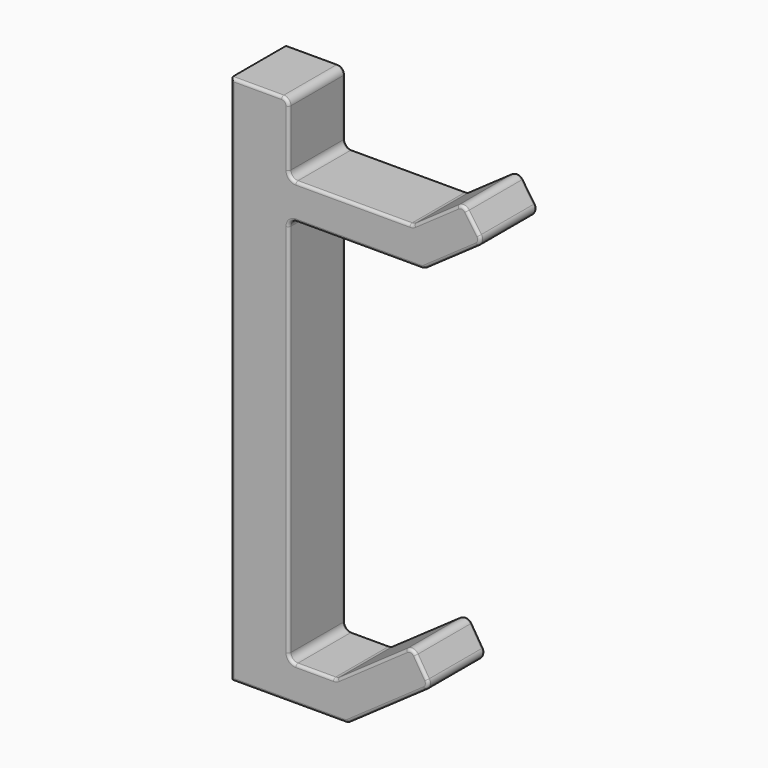
from build123d import *

# Parameters (mm, degrees)
F1_DEPTH = 12.7
F2_R     = 0.508


with BuildPart() as f1:
    # F0 (on Front) → F1 (new body)
    with BuildSketch(Plane.XZ):
        with BuildLine():
            Line((-24.592176, 50.020517), (-33.691168, 50.020517))
            Line((-33.691168, 50.020517), (-33.691168, -38.879483))
            Line((-33.691168, -38.879483), (-33.691168, -45.229483))
            Line((-33.691168, -45.229483), (-23.321956, -45.229483))
            Line((-23.321956, -45.229483), (-13.285488, -45.229483))
            ThreePointArc((-13.285488, -45.229483), (-12.903592, -45.170703), (-12.557046, -44.999806))
            Line((-12.557046, -44.999806), (1.165009, -35.391519))
            ThreePointArc((1.165009, -35.391519), (1.680854, -34.605461), (1.514742, -33.680048))
            Line((1.514742, -33.680048), (-0.50165, -30.440789))
            ThreePointArc((-0.50165, -30.440789), (-1.325559, -29.867651), (-2.308267, -30.071614))
            Line((-2.308267, -30.071614), (-14.559193, -38.649806))
            ThreePointArc((-14.559193, -38.649806), (-14.905739, -38.820703), (-15.287635, -38.879483))
            Line((-15.287635, -38.879483), (-22.052176, -38.879483))
            ThreePointArc((-22.052176, -38.879483), (-22.950201, -38.507508), (-23.322176, -37.609483))
            Line((-23.322176, -37.609483), (-23.322176, 29.712342))
            ThreePointArc((-23.322176, 29.712342), (-22.950201, 30.610368), (-22.052176, 30.982342))
            Line((-22.052176, 30.982342), (0.436567, 30.982342))
            ThreePointArc((0.436567, 30.982342), (0.818464, 31.041122), (1.165009, 31.212019))
            Line((1.165009, 31.212019), (10.530465, 37.769782))
            ThreePointArc((10.530465, 37.769782), (11.052137, 38.586245), (10.846207, 39.533001))
            Line((10.846207, 39.533001), (8.677486, 42.665598))
            ThreePointArc((8.677486, 42.665598), (7.857162, 43.192816), (6.90486, 42.983024))
            Line((6.90486, 42.983024), (-0.837138, 37.562019))
            ThreePointArc((-0.837138, 37.562019), (-1.183684, 37.391122), (-1.56558, 37.332342))
            Line((-1.56558, 37.332342), (-22.052176, 37.332342))
            ThreePointArc((-22.052176, 37.332342), (-22.950201, 37.704317), (-23.322176, 38.602342))
            Line((-23.322176, 38.602342), (-23.322176, 48.750517))
            ThreePointArc((-23.322176, 48.750517), (-23.69415, 49.648543), (-24.592176, 50.020517))
        make_face()
        with BuildLine():
            Line((-24.592176, 50.020517), (-33.691168, 50.020517))
            Line((-33.691168, 50.020517), (-33.691168, -38.879483))
            Line((-33.691168, -38.879483), (-33.691168, -45.229483))
            Line((-33.691168, -45.229483), (-23.321956, -45.229483))
            Line((-23.321956, -45.229483), (-13.285488, -45.229483))
            ThreePointArc((-13.285488, -45.229483), (-12.903592, -45.170703), (-12.557046, -44.999806))
            Line((-12.557046, -44.999806), (1.165009, -35.391519))
            ThreePointArc((1.165009, -35.391519), (1.680854, -34.605461), (1.514742, -33.680048))
            Line((1.514742, -33.680048), (-0.50165, -30.440789))
            ThreePointArc((-0.50165, -30.440789), (-1.325559, -29.867651), (-2.308267, -30.071614))
            Line((-2.308267, -30.071614), (-14.559193, -38.649806))
            ThreePointArc((-14.559193, -38.649806), (-14.905739, -38.820703), (-15.287635, -38.879483))
            Line((-15.287635, -38.879483), (-22.052176, -38.879483))
            ThreePointArc((-22.052176, -38.879483), (-22.950201, -38.507508), (-23.322176, -37.609483))
            Line((-23.322176, -37.609483), (-23.322176, 29.712342))
            ThreePointArc((-23.322176, 29.712342), (-22.950201, 30.610368), (-22.052176, 30.982342))
            Line((-22.052176, 30.982342), (0.436567, 30.982342))
            ThreePointArc((0.436567, 30.982342), (0.818464, 31.041122), (1.165009, 31.212019))
            Line((1.165009, 31.212019), (10.530465, 37.769782))
            ThreePointArc((10.530465, 37.769782), (11.052137, 38.586245), (10.846207, 39.533001))
            Line((10.846207, 39.533001), (8.677486, 42.665598))
            ThreePointArc((8.677486, 42.665598), (7.857162, 43.192816), (6.90486, 42.983024))
            Line((6.90486, 42.983024), (-0.837138, 37.562019))
            ThreePointArc((-0.837138, 37.562019), (-1.183684, 37.391122), (-1.56558, 37.332342))
            Line((-1.56558, 37.332342), (-22.052176, 37.332342))
            ThreePointArc((-22.052176, 37.332342), (-22.950201, 37.704317), (-23.322176, 38.602342))
            Line((-23.322176, 38.602342), (-23.322176, 48.750517))
            ThreePointArc((-23.322176, 48.750517), (-23.69415, 49.648543), (-24.592176, 50.020517))
        make_face()
    extrude(amount=F1_DEPTH)

    # F2
    f2_edges = [f1.edges().sort_by_distance(p)[0] for p in [
        (-1.183684, -12.7, 37.391122),
        (-11.808878, -12.7, 37.332342),
        (-22.950201, -12.7, 37.704317),
        (-23.322176, -12.7, 43.67643),
        (-23.69415, -12.7, 49.648543),
        (-29.141672, -12.7, 50.020517),
        (-33.691168, -12.7, 2.395517),
        (-23.488328, -12.7, -45.229483),
        (-12.903592, -12.7, -45.170703),
        (-5.696018, -12.7, -40.195662),
        (1.680854, -12.7, -34.605461),
        (0.506546, -12.7, -32.060419),
        (-1.325559, -12.7, -29.867651),
        (-8.43373, -12.7, -34.36071),
        (-14.905739, -12.7, -38.820703),
        (-18.669906, -12.7, -38.879483),
        (-22.950201, -12.7, -38.507508),
        (-23.322176, -12.7, -3.94857),
        (-22.950201, -12.7, 30.610368),
        (-10.807804, -12.7, 30.982342),
        (0.818464, -12.7, 31.041122),
        (5.847737, -12.7, 34.4909),
        (11.052137, -12.7, 38.586245),
        (9.761846, -12.7, 41.0993),
        (7.857162, -12.7, 43.192816),
        (3.033861, -12.7, 40.272522),
        (-1.183684, 0, 37.391122),
        (-11.808878, 0, 37.332342),
        (-22.950201, 0, 37.704317),
        (-23.322176, 0, 43.67643),
        (-23.69415, 0, 49.648543),
        (-29.141672, 0, 50.020517),
        (-33.691168, 0, 2.395517),
        (-23.488328, 0, -45.229483),
        (-12.903592, 0, -45.170703),
        (-5.696018, 0, -40.195662),
        (1.680854, 0, -34.605461),
        (0.506546, 0, -32.060419),
        (-1.325559, 0, -29.867651),
        (-8.43373, 0, -34.36071),
        (-14.905739, 0, -38.820703),
        (-18.669906, 0, -38.879483),
        (-22.950201, 0, -38.507508),
        (-23.322176, 0, -3.94857),
        (-22.950201, 0, 30.610368),
        (-10.807804, 0, 30.982342),
        (0.818464, 0, 31.041122),
        (5.847737, 0, 34.4909),
        (11.052137, 0, 38.586245),
        (9.761846, 0, 41.0993),
        (7.857162, 0, 43.192816),
        (3.033861, 0, 40.272522),
    ]]
    fillet(f2_edges, radius=F2_R)


solid = f1.part
